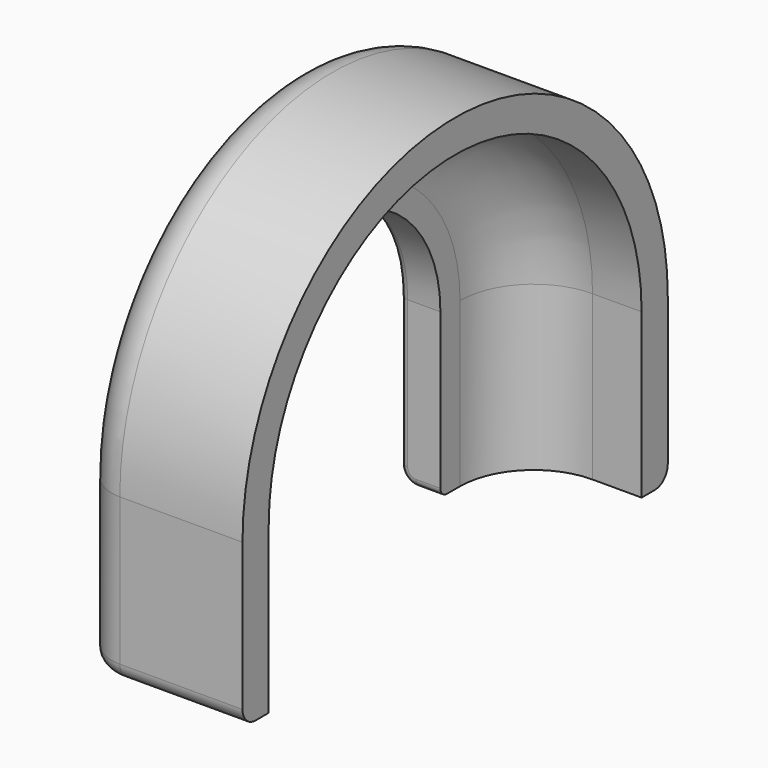
from build123d import *

# Parameters (mm, degrees)
PAD_DEPTH    = 10
POCKET_DEPTH = 15
FILLET_R     = 9
FILLET001_R  = 5
FILLET002_R  = 2
FILLET003_R  = 1


with BuildPart() as part:
    # Sketch → Pad (new body, symmetric)
    with BuildSketch(Plane.YZ):
        with BuildLine():
            ThreePointArc((32.5, -1e-06), (1e-06, 32.5), (-32.5, 1e-06))
            Line((-32.5, -20), (-32.5, 1e-06))
            Line((-16.5, -20), (-32.5, -20))
            Line((-16.5, -20), (-16.5, 0))
            ThreePointArc((16.5, 5e-06), (-3e-06, 16.5), (-16.5, 0))
            Line((16.5, 5e-06), (16.5, -20))
            Line((32.5, -20), (16.5, -20))
            Line((32.5, -1e-06), (32.5, -20))
        make_face()
    extrude(amount=PAD_DEPTH, both=True)

    # Sketch001 → Pocket (cut)
    with BuildSketch(Plane.YZ.offset(10)):
        with BuildLine():
            Line((16.5, -20), (16.5, 5e-06))
            ThreePointArc((16.5, 5e-06), (-3e-06, 16.5), (-16.5, 0))
            Line((-16.5, 0), (-16.5, -20))
            Line((-28.5, -20), (-16.5, -20))
            Line((-28.5, 0), (-28.5, -20))
            ThreePointArc((28.5, 0), (0, 28.5), (-28.5, 0))
            Line((28.5, -20), (28.5, 0))
            Line((16.5, -20), (28.5, -20))
        make_face()
    extrude(amount=-POCKET_DEPTH, mode=Mode.SUBTRACT)

    # Fillet
    fillet_edges = [part.edges().sort_by_distance(p)[0] for p in [
        (-5, 0, 28.5),
    ]]
    fillet(fillet_edges, radius=FILLET_R)

    # Fillet001
    fillet001_edges = [part.edges().sort_by_distance(p)[0] for p in [
        (-10, 1e-06, 32.5),
    ]]
    fillet(fillet001_edges, radius=FILLET001_R)

    # Fillet002
    fillet002_edges = [part.edges().sort_by_distance(p)[0] for p in [
        (-8.535534, 31.035534, -20),
        (-8.535534, -31.035534, -20),
    ]]
    fillet(fillet002_edges, radius=FILLET002_R)

    # Fillet003
    fillet003_edges = [part.edges().sort_by_distance(p)[0] for p in [
        (-10, -3e-06, 16.5),
    ]]
    fillet(fillet003_edges, radius=FILLET003_R)


solid = part.part
